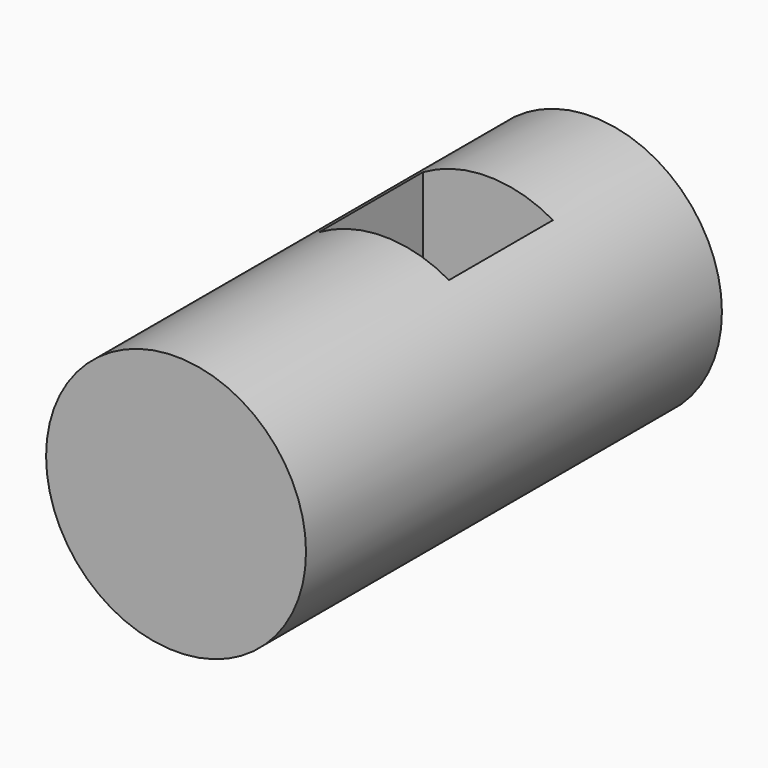
from build123d import *

# Parameters (mm, degrees)
F0_R     = 25.4
F1_DEPTH = 101.6
F3_DEPTH = 25.4


with BuildPart() as f1:
    # F0 (on Front) → F1 (new body)
    with BuildSketch(Plane.XZ):
        Circle(F0_R)
    extrude(amount=F1_DEPTH)

    # F2 (on Top) → F3 (cut)
    with BuildSketch(Plane.XY):
        Polygon((-12.7, -50.8), (12.7, -50.8), (12.7, -25.4), (0, -25.4), (-12.7, -25.4), align=None)
    extrude(amount=F3_DEPTH, mode=Mode.SUBTRACT)


solid = f1.part
